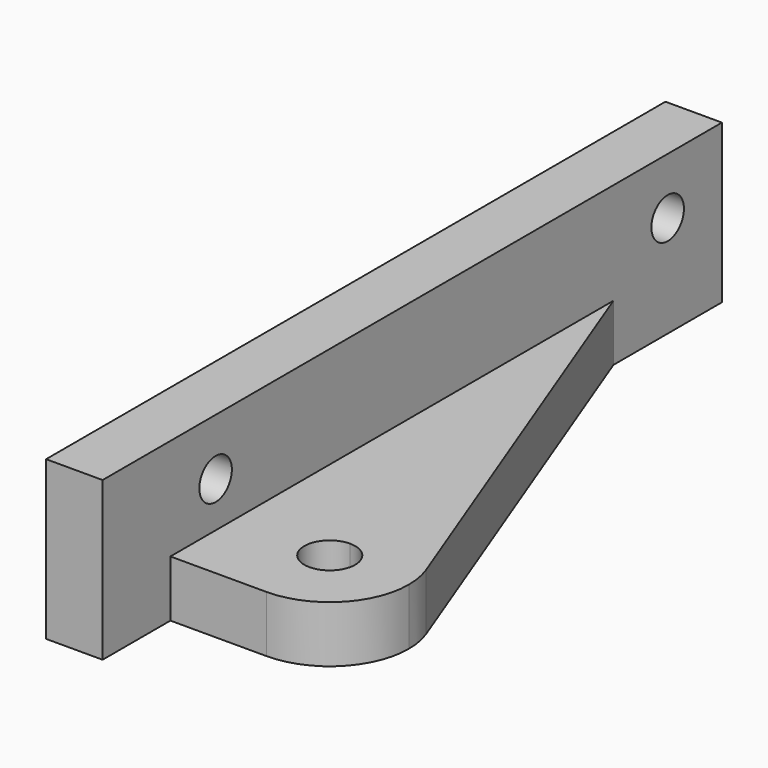
from build123d import *

# Parameters (mm, degrees)
F1_DEPTH = 14
F2_R     = 1.8
F3_DEPTH = 25
F4_DEPTH = 5


with BuildPart() as f1:
    # F0 (on Top) → F1 (new body)
    with BuildSketch(Plane.XY):
        Polygon((0, 68.5), (0, 0), (5, 0), (5, 7.5), (5, 21.5), (5, 56.5), (5, 68.5), align=None)
    extrude(amount=F1_DEPTH)

    # F2 (on face) → F3 (cut)
    with BuildSketch(Plane(origin=(0, 0, 0), x_dir=(0, -1, 0), z_dir=(-1, 0, 0))):
        with Locations((-62.5, 9)):
            Circle(F2_R)
        with Locations((-12.5, 9)):
            Circle(F2_R)
    extrude(amount=-F3_DEPTH, mode=Mode.SUBTRACT)

    # F0 (on Top) → F4 (join)
    with BuildSketch(Plane.XY):
        with BuildLine():
            Line((5, 56.5), (5, 21.5))
            Line((5, 21.5), (13.5, 21.5))
            ThreePointArc((13.5, 21.5), (17.472758, 20.263436), (20.041924, 16.990628))
            Line((20.041924, 16.990628), (5, 56.5))
        make_face()
        with BuildLine():
            Line((5, 21.5), (5, 7.5))
            Line((5, 7.5), (13.5, 7.5))
            ThreePointArc((13.5, 7.5), (6.5, 14.5), (13.5, 21.5))
            Line((13.5, 21.5), (5, 21.5))
        make_face()
        with BuildLine():
            Line((13.5, 12.25), (13.5, 7.5))
            ThreePointArc((13.5, 7.5), (18.449747, 9.550253), (20.5, 14.5))
            ThreePointArc((20.5, 14.5), (20.384529, 15.766201), (20.041924, 16.990628))
            ThreePointArc((20.041924, 16.990628), (17.472758, 20.263436), (13.5, 21.5))
            Line((13.5, 21.5), (13.5, 16.75))
            ThreePointArc((13.5, 16.75), (15.09099, 16.09099), (15.75, 14.5))
            ThreePointArc((15.75, 14.5), (15.09099, 12.90901), (13.5, 12.25))
        make_face()
        with BuildLine():
            ThreePointArc((13.5, 21.5), (6.5, 14.5), (13.5, 7.5))
            Line((13.5, 7.5), (13.5, 12.25))
            ThreePointArc((13.5, 12.25), (11.25, 14.5), (13.5, 16.75))
            Line((13.5, 16.75), (13.5, 21.5))
        make_face()
    extrude(amount=F4_DEPTH)


solid = f1.part
